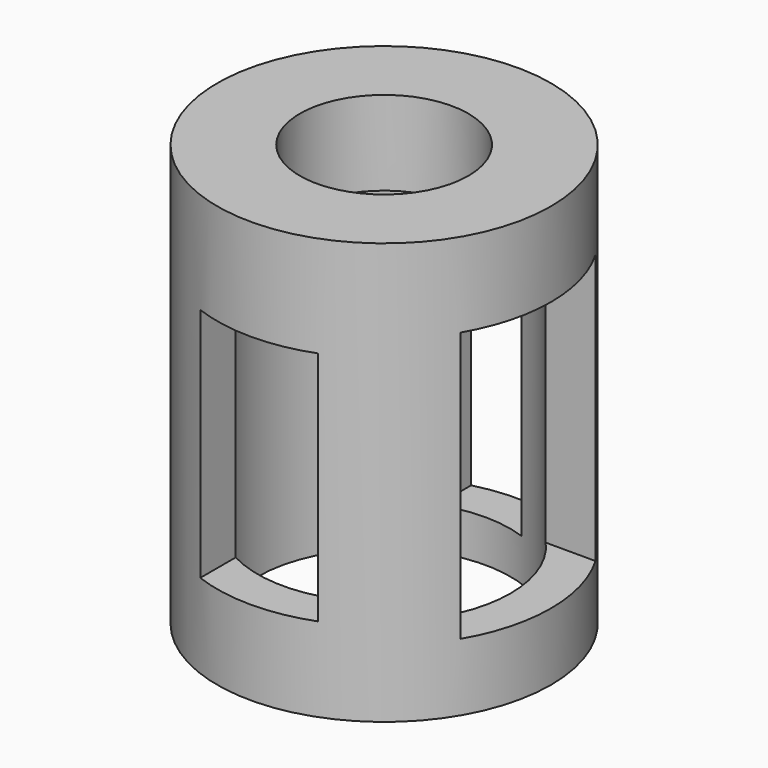
from build123d import *

# Parameters (mm, degrees)
F0_R      = 12.573
F1_DEPTH  = 31.75
F3_W      = 12.7
F3_H      = 20.32
F4_DEPTH  = 6.986
F6_W      = 6.35
F6_H      = 20.066
F7_DEPTH  = 10.161
F8_W      = 8.89
F8_H      = 17.78
F9_DEPTH  = 12.574
F10_R     = 6.35
F11_DEPTH = 31.751
F12_R     = 9.525
F13_DEPTH = 25.4


with BuildPart() as f1:
    # F0 (on Top) → F1 (new body)
    with BuildSketch(Plane.XY):
        Circle(F0_R)
    extrude(amount=F1_DEPTH)

    # F3 (on offset) → F4 (cut, through all)
    with BuildSketch(Plane.YZ.offset(5.588)):
        with Locations((0, 15.24)):
            Rectangle(F3_W, F3_H)
    extrude(amount=F4_DEPTH, mode=Mode.SUBTRACT)

    # F6 (on offset) → F7 (cut, through all)
    with BuildSketch(Plane.XZ.offset(-2.413)):
        with Locations((0, 13.208)):
            Rectangle(F6_W, F6_H)
    extrude(amount=-F7_DEPTH, mode=Mode.SUBTRACT)

    # F8 (on Front) → F9 (cut, through all)
    with BuildSketch(Plane.XZ):
        with Locations((0, 15.24)):
            Rectangle(F8_W, F8_H)
    extrude(amount=F9_DEPTH, mode=Mode.SUBTRACT)

    # F10 (on Top) → F11 (cut, through all)
    with BuildSketch(Plane.XY):
        Circle(F10_R)
    extrude(amount=F11_DEPTH, mode=Mode.SUBTRACT)

    # F12 (on face) → F13 (cut)
    with BuildSketch(Plane(origin=(0, 0, 0), x_dir=(1, 0, 0), z_dir=(0, 0, -1))):
        Circle(F12_R)
    extrude(amount=-F13_DEPTH, mode=Mode.SUBTRACT)


solid = f1.part
